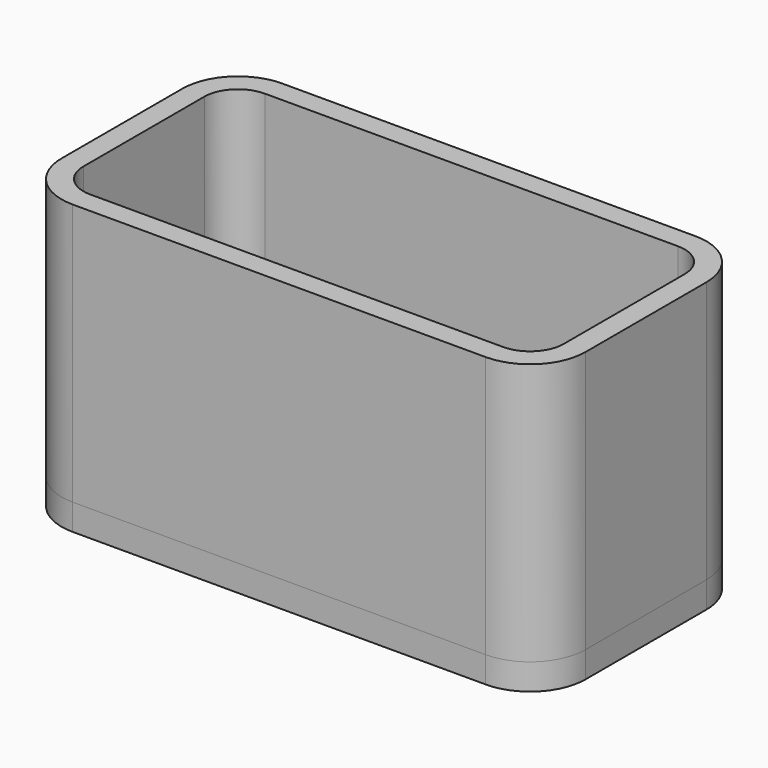
from build123d import *

# Parameters (mm, degrees)
F1_DEPTH = 30
F2_T     = -2.5
F4_DEPTH = 2.501
F5_DEPTH = 3


with BuildPart() as f1:
    # F0 (on Top) → F1 (new body)
    with BuildSketch(Plane.XY):
        with BuildLine():
            Line((-23.65, -15), (23.65, -15))
            ThreePointArc((23.65, -15), (28.140128, -13.140128), (30, -8.65))
            Line((30, -8.65), (30, 8.65))
            ThreePointArc((30, 8.65), (28.140128, 13.140128), (23.65, 15))
            Line((23.65, 15), (-23.65, 15))
            ThreePointArc((-23.65, 15), (-28.140128, 13.140128), (-30, 8.65))
            Line((-30, 8.65), (-30, -8.65))
            ThreePointArc((-30, -8.65), (-28.140128, -13.140128), (-23.65, -15))
        make_face()
    extrude(amount=F1_DEPTH)

    # F2
    f2_openings = [f1.faces().sort_by_distance(p)[0] for p in [
        (0, 0, 30),
    ]]
    offset(amount=F2_T, openings=f2_openings)

    # F3 (on face) → F4 (cut, through all)
    with BuildSketch(Plane.XY.offset(2.5)):
        with BuildLine():
            Line((27.5, -8.65), (27.5, 8.65))
            ThreePointArc((27.5, 8.65), (26.372361, 11.372361), (23.65, 12.5))
            Line((23.65, 12.5), (-23.65, 12.5))
            ThreePointArc((-23.65, 12.5), (-26.372361, 11.372361), (-27.5, 8.65))
            Line((-27.5, 8.65), (-27.5, -8.65))
            ThreePointArc((-27.5, -8.65), (-26.372361, -11.372361), (-23.65, -12.5))
            Line((-23.65, -12.5), (23.65, -12.5))
            ThreePointArc((23.65, -12.5), (26.372361, -11.372361), (27.5, -8.65))
        make_face()
    extrude(amount=-F4_DEPTH, mode=Mode.SUBTRACT)


with BuildPart() as f5:
    # F0 (on Top) → F5 (new body)
    with BuildSketch(Plane.XY):
        with BuildLine():
            Line((-23.65, -15), (23.65, -15))
            ThreePointArc((23.65, -15), (28.140128, -13.140128), (30, -8.65))
            Line((30, -8.65), (30, 8.65))
            ThreePointArc((30, 8.65), (28.140128, 13.140128), (23.65, 15))
            Line((23.65, 15), (-23.65, 15))
            ThreePointArc((-23.65, 15), (-28.140128, 13.140128), (-30, 8.65))
            Line((-30, 8.65), (-30, -8.65))
            ThreePointArc((-30, -8.65), (-28.140128, -13.140128), (-23.65, -15))
        make_face()
    extrude(amount=-F5_DEPTH)


solid = Compound([f1.part, f5.part])
